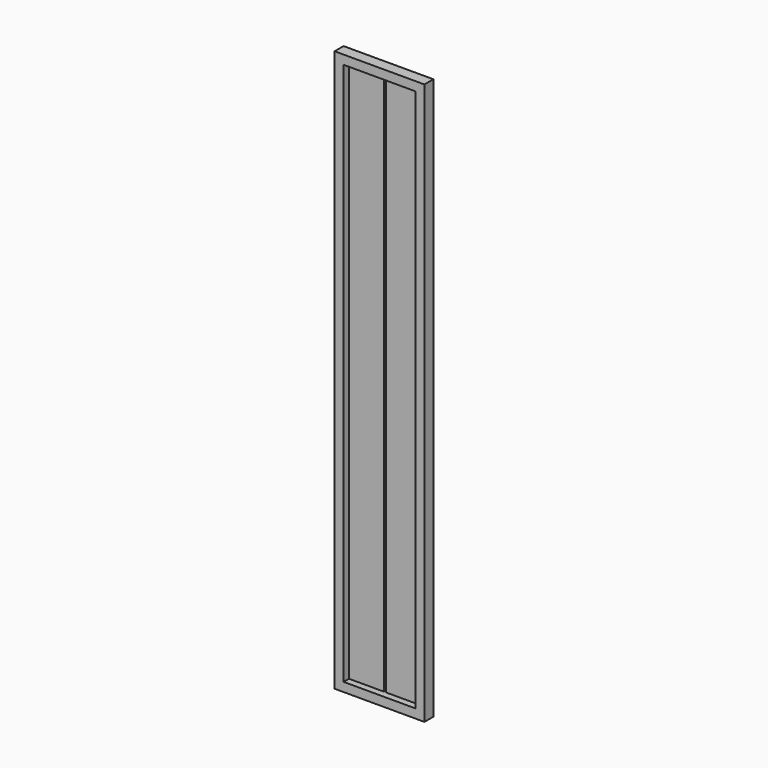
from build123d import *

# Parameters (mm, degrees)
F1_DEPTH = 3.96875
F0_W     = 12.319
F0_H     = 96.04375
F2_DEPTH = 1.5875


with BuildPart() as f1:
    # F0 (on Front) → F1 (new body)
    with BuildSketch(Plane.XZ):
        Polygon((12.7, -96.04375), (15.875, -99.21875), (15.875, 99.21875), (12.7, 96.04375), (12.7, 0), align=None)
        Polygon((-15.875, -99.21875), (-12.7, -96.04375), (-12.7, 0), (-12.7, 96.04375), (-15.875, 99.21875), align=None)
        Polygon((-15.875, 99.21875), (-12.7, 96.04375), (-0.381, 96.04375), (0.381, 96.04375), (12.7, 96.04375), (15.875, 99.21875), align=None)
        Polygon((-0.381, -96.04375), (-12.7, -96.04375), (-15.875, -99.21875), (15.875, -99.21875), (12.7, -96.04375), (0.381, -96.04375), align=None)
    extrude(amount=F1_DEPTH)

    # F0 (on Front) → F2 (join)
    with BuildSketch(Plane.XZ):
        with Locations((6.5405, 48.021875)):
            Rectangle(F0_W, F0_H)
        with Locations((-6.5405, 48.021875)):
            Rectangle(F0_W, F0_H)
        with Locations((-6.5405, -48.021875)):
            Rectangle(F0_W, F0_H)
        with Locations((6.5405, -48.021875)):
            Rectangle(F0_W, F0_H)
    extrude(amount=F2_DEPTH)


solid = f1.part
